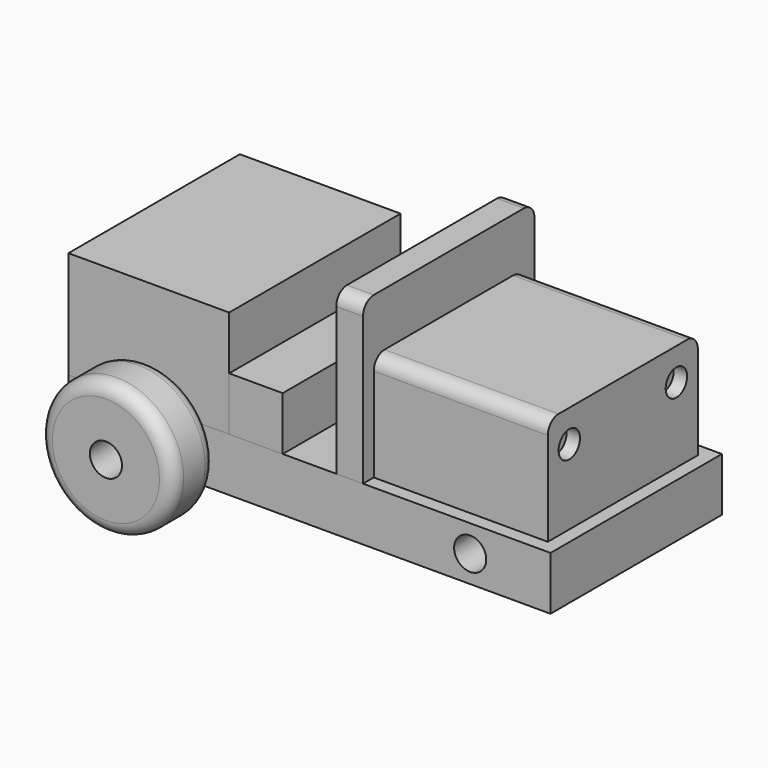
from build123d import *

# Parameters (mm, degrees)
F0_W      = 180
F0_H      = 80
F1_DEPTH  = 20
F2_R      = 6
F3_DEPTH  = 80.001
F4_W      = 60
F4_H      = 80
F5_DEPTH  = 40
F6_W      = 20
F6_H      = 80
F7_DEPTH  = 20
F8_W      = 65
F8_H      = 70
F9_DEPTH  = 40
F10_R     = 5
F11_DEPTH = 5
F12_W     = 10
F12_H     = 80
F13_DEPTH = 60
F14_R     = 25
F14_R_2   = 6
F15_DEPTH = 20
F16_R     = 5
F17_R     = 5
F18_DEPTH = 10
F19_R     = 5
F20_R     = 5
F22_DEPTH = 8
F23_R     = 4
F24_DEPTH = 8


with BuildPart() as f1:
    # F0 (on Top) → F1 (new body)
    with BuildSketch(Plane.XY):
        Rectangle(F0_W, F0_H)
    extrude(amount=F1_DEPTH)

    # F2 (on face) → F3 (cut, through all)
    with BuildSketch(Plane.XZ.offset(40)):
        with Locations((-60, 10)):
            Circle(F2_R)
        with Locations((60, 10)):
            Circle(F2_R)
    extrude(amount=-F3_DEPTH, mode=Mode.SUBTRACT)

    # F23 (on face) → F24 (cut)
    with BuildSketch(Plane.XY.offset(20)):
        with Locations((52.5, 0)):
            Circle(F23_R)
    extrude(amount=-F24_DEPTH, mode=Mode.SUBTRACT)


with BuildPart() as f5:
    # F4 (on face) → F5 (new body)
    with BuildSketch(Plane.XY.offset(20)):
        with Locations((-60, 0)):
            Rectangle(F4_W, F4_H)
    extrude(amount=F5_DEPTH)

    # F17 (on face) → F18 (cut)
    with BuildSketch(Plane(origin=(-90, 0, 0), x_dir=(0, -1, 0), z_dir=(-1, 0, 0))):
        with Locations((-10, 50)):
            Circle(F17_R)
    extrude(amount=-F18_DEPTH, mode=Mode.SUBTRACT)


with BuildPart() as f7:
    # F6 (on face) → F7 (new body)
    with BuildSketch(Plane.XY.offset(20)):
        with Locations((-20, 0)):
            Rectangle(F6_W, F6_H)
    extrude(amount=F7_DEPTH)


with BuildPart() as f9:
    # F8 (on face) → F9 (new body)
    with BuildSketch(Plane.XY.offset(20)):
        with Locations((52.5, 0)):
            Rectangle(F8_W, F8_H)
    extrude(amount=F9_DEPTH)

    # F10 (on face) → F11 (cut)
    with BuildSketch(Plane.YZ.offset(85)):
        with Locations((-25, 48)):
            Circle(F10_R)
        with Locations((25, 48)):
            Circle(F10_R)
    extrude(amount=-F11_DEPTH, mode=Mode.SUBTRACT)

    # F19
    f19_edges = [f9.edges().sort_by_distance(p)[0] for p in [
        (52.5, -35, 60),
        (52.5, 35, 60),
    ]]
    fillet(f19_edges, radius=F19_R)

    # F21 (on face) → F22 (cut)
    with BuildSketch(Plane(origin=(0, 0, 20), x_dir=(1, 0, 0), z_dir=(0, 0, -1))):
        with BuildLine():
            ThreePointArc((56.5, 0), (56.166553, 1.598872), (55.221804, 2.931174))
            Line((55.221804, 2.931174), (49.778196, -2.931174))
            ThreePointArc((49.778196, -2.931174), (54.098872, -3.666553), (56.5, 0))
        make_face()
        with BuildLine():
            Line((49.778196, -2.931174), (55.221804, 2.931174))
            ThreePointArc((55.221804, 2.931174), (49.568826, 2.721804), (49.778196, -2.931174))
        make_face()
    extrude(amount=-F22_DEPTH, mode=Mode.SUBTRACT)


with BuildPart() as f13:
    # F12 (on face) → F13 (new body)
    with BuildSketch(Plane.XY.offset(20)):
        with Locations((15, 0)):
            Rectangle(F12_W, F12_H)
    extrude(amount=F13_DEPTH)

    # F20
    f20_edges = [f13.edges().sort_by_distance(p)[0] for p in [
        (15, -40, 80),
        (15, 40, 80),
    ]]
    fillet(f20_edges, radius=F20_R)


with BuildPart() as f15:
    # F14 (on face) → F15 (new body)
    with BuildSketch(Plane.XZ.offset(40)):
        with Locations((-60, 10)):
            Circle(F14_R)
        with Locations((-60, 10)):
            Circle(F14_R_2, mode=Mode.SUBTRACT)
    extrude(amount=F15_DEPTH)

    # F16
    f16_edges = [f15.edges().sort_by_distance(p)[0] for p in [
        (-35, -50, 10),
        (-85, -40, 10),
        (-85, -60, 10),
    ]]
    fillet(f16_edges, radius=F16_R)


solid = Compound([f1.part, f5.part, f7.part, f9.part, f13.part, f15.part])
